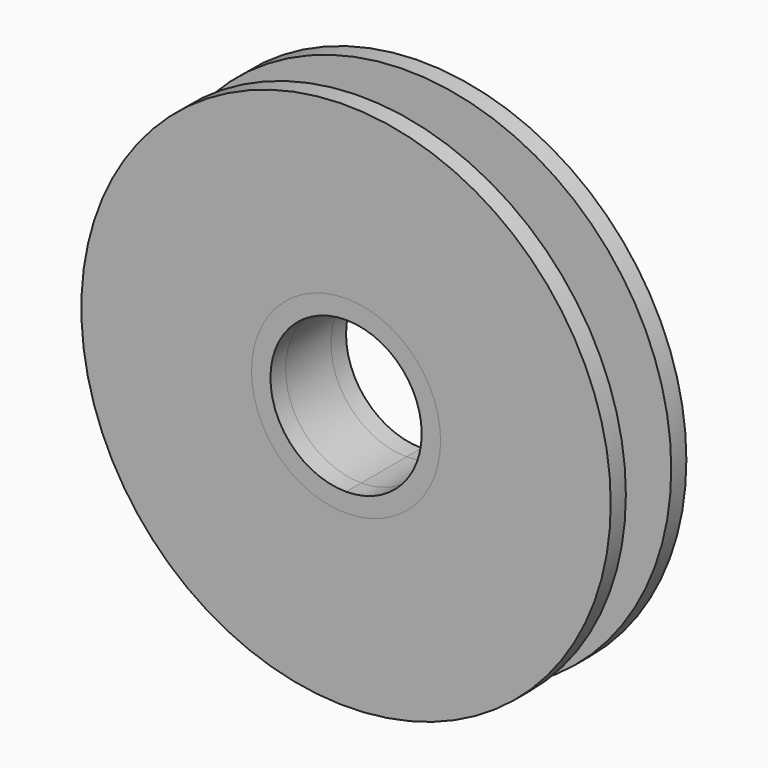
from build123d import *

# Parameters (mm, degrees)
F0_R     = 88.9
F1_DEPTH = 6.35
F3_DEPTH = 19.05
F4_R     = 88.9
F5_DEPTH = 6.35
F6_DEPTH = 6.35
F7_DEPTH = 25.4


with BuildPart() as f1:
    # F0 (on Front) → F1 (new body)
    with BuildSketch(Plane.XZ):
        with Locations((-91.1761373281, 7.4791824445)):
            Circle(F0_R)
    extrude(amount=F1_DEPTH)

    # F2 (on face) → F3 (join)
    with BuildSketch(Plane.XZ.offset(6.35)):
        with BuildLine():
            Line((-91.1761373281, 32.8791824445), (-91.1761373281, 39.2291824445))
            ThreePointArc((-91.1761373281, 39.2291824445), (-122.9261373281, 7.4791824445), (-91.1761373281, -24.2708175555))
            Line((-91.1761373281, -24.2708175555), (-91.1761373281, -17.9208175555))
            ThreePointArc((-91.1761373281, -17.9208175555), (-116.5761373281, 7.4791824445), (-91.1761373281, 32.8791824445))
        make_face()
        with BuildLine():
            ThreePointArc((-59.4261373281, 7.4791824445), (-68.7254970255, 29.9298227472), (-91.1761373281, 39.2291824445))
            Line((-91.1761373281, 39.2291824445), (-91.1761373281, 32.8791824445))
            ThreePointArc((-91.1761373281, 32.8791824445), (-73.215625086, 25.4396946867), (-65.7761373281, 7.4791824445))
            ThreePointArc((-65.7761373281, 7.4791824445), (-73.215625086, -10.4813297976), (-91.1761373281, -17.9208175555))
            Line((-91.1761373281, -17.9208175555), (-91.1761373281, -24.2708175555))
            ThreePointArc((-91.1761373281, -24.2708175555), (-68.7254970255, -14.9714578582), (-59.4261373281, 7.4791824445))
        make_face()
    extrude(amount=F3_DEPTH)


with BuildPart() as f5:
    # F4 (on face) → F5 (new body)
    with BuildSketch(Plane.XZ.offset(25.4)):
        with Locations((-91.1761373281, 7.4791824445)):
            Circle(F4_R)
        with BuildLine():
            ThreePointArc((-91.2007505714, -24.2708080151), (-122.9261373281, 7.4791824445), (-91.2007505714, 39.2291729042))
            ThreePointArc((-91.2007505714, 39.2291729042), (-68.7342008083, 29.9385231569), (-59.4261373281, 7.4791824445))
            ThreePointArc((-59.4261373281, 7.4791824445), (-68.7342008083, -14.9801582679), (-91.2007505714, -24.2708080151))
        make_face(mode=Mode.SUBTRACT)
    extrude(amount=F5_DEPTH)


with BuildPart() as f6:
    # F6 (new): a face of the model
    f6_faces = [f1.part.faces().sort_by_distance(p)[0] for p in [
        (-91.1761373281, -25.4, 38.3311568324),
    ]]
    extrude(f6_faces, amount=F6_DEPTH)


with BuildPart() as f1_1:
    add(f1.part)

    # F7 (cut): a face of the model
    f7_faces = [f1_1.faces().sort_by_distance(p)[0] for p in [
        (-91.1761373281, -6.35, 7.4791824445),
    ]]
    extrude(f7_faces, amount=-F7_DEPTH, mode=Mode.SUBTRACT)


solid = Compound([f5.part, f6.part, f1_1.part])
